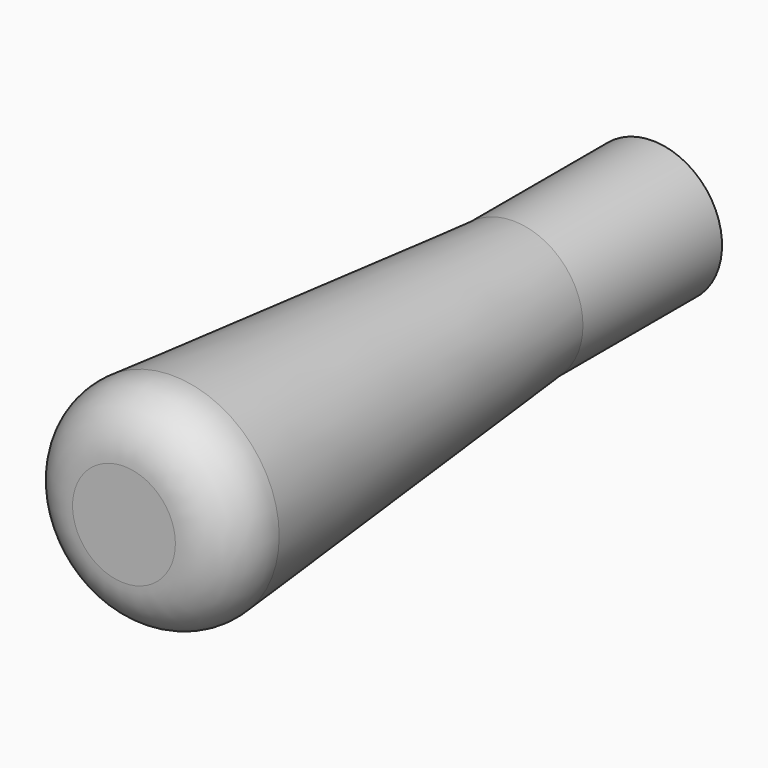
from build123d import *

# Parameters (mm, degrees)
F0_R      = 10
F1_DEPTH  = 70
F1_TAPER  = -5
F2_R      = 8
F3_R      = 10
F3_R_2    = 7.5
F1_FACE_R = 10
F4_DEPTH  = 25


with BuildPart() as f1:
    # F0 (on Front) → F1 (new body)
    with BuildSketch(Plane.XZ):
        Circle(F0_R)
    extrude(amount=F1_DEPTH, taper=F1_TAPER)

    # F2
    f2_edges = [f1.edges().sort_by_distance(p)[0] for p in [
        (-16.124206, -70, 0),
    ]]
    fillet(f2_edges, radius=F2_R)

    # F3 (on face) + F1_face (on face) → F4 (join)
    with BuildSketch(Plane(origin=(0, 0, 0), x_dir=(-1, 0, 0), z_dir=(0, 1, 0))):
        Circle(F3_R)
        Circle(F3_R_2, mode=Mode.SUBTRACT)
    with BuildSketch(Plane(origin=(0, 0, 0), x_dir=(1, 0, 0), z_dir=(0, 1, 0))):
        Circle(F1_FACE_R)
    extrude(amount=F4_DEPTH)


solid = f1.part
